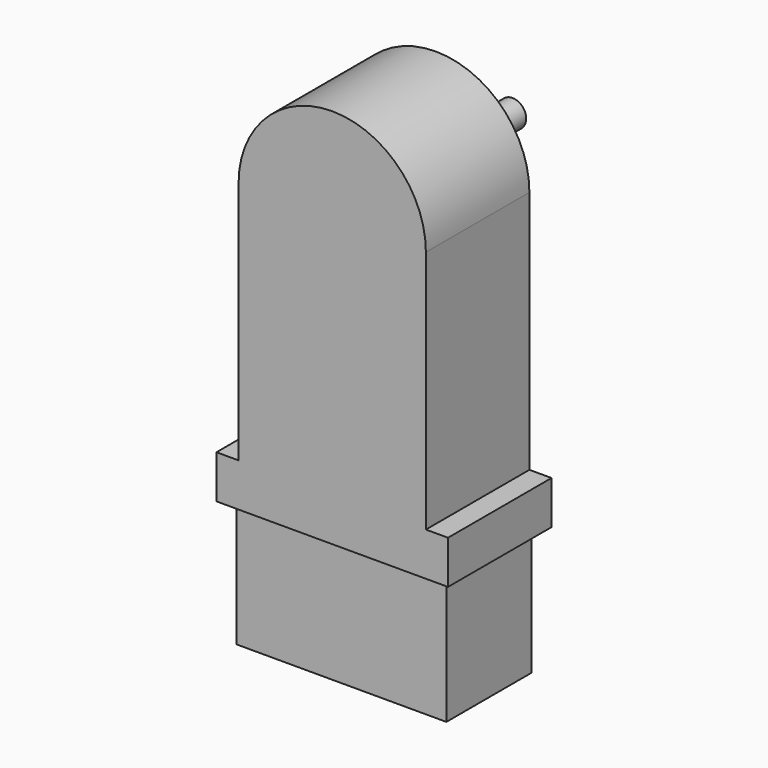
from build123d import *

# Parameters (mm, degrees)
F0_W     = 19.9
F0_H     = 30.55
F1_DEPTH = 13.75
F3_DEPTH = 10.2
F5_W     = 24.6
F5_H     = 13.75
F6_DEPTH = 4.6
F7_W     = 22.3
F7_H     = 11.3
F8_DEPTH = 13.5


with BuildPart() as f1:
    # F0 (on Front) → F1 (new body)
    with BuildSketch(Plane.XZ):
        with BuildLine():
            ThreePointArc((9.95, 0), (0, 9.95), (-9.95, 0))
            Line((-9.95, 0), (9.95, 0))
        make_face()
        with Locations((0, -15.275)):
            Rectangle(F0_W, F0_H)
    extrude(amount=F1_DEPTH)

    # F2 (on face) → F3 (join)
    with BuildSketch(Plane(origin=(0, 0, 0), x_dir=(-1, 0, 0), z_dir=(0, 1, 0))):
        with BuildLine():
            ThreePointArc((1.095445115, -0.95), (1.3584725645, -0.5070032462), (1.45, 0))
            ThreePointArc((1.45, 0), (-0.5070032462, 1.3584725645), (-1.095445115, -0.95))
            Line((-1.095445115, -0.95), (1.095445115, -0.95))
        make_face()
        with BuildLine():
            Line((1.095445115, -0.95), (-1.095445115, -0.95))
            ThreePointArc((-1.095445115, -0.95), (0, -1.45), (1.095445115, -0.95))
        make_face()
    extrude(amount=F3_DEPTH)

    # F5 (on offset) → F6 (join)
    with BuildSketch(Plane(origin=(0, 0, -30.55), x_dir=(1, 0, 0), z_dir=(0, 0, -1))):
        with Locations((0, 6.875)):
            Rectangle(F5_W, F5_H)
    extrude(amount=-F6_DEPTH)

    # F7 (on offset) → F8 (join)
    with BuildSketch(Plane(origin=(0, 0, -30.55), x_dir=(1, 0, 0), z_dir=(0, 0, -1))):
        with Locations((0, 6.875)):
            Rectangle(F7_W, F7_H)
    extrude(amount=F8_DEPTH)


solid = f1.part
